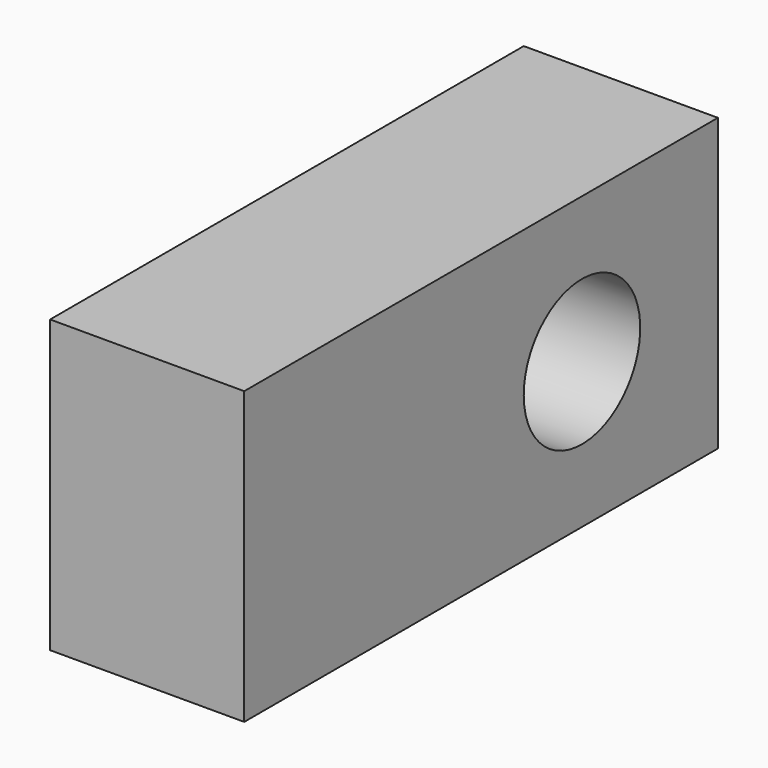
from build123d import *

# Parameters (mm, degrees)
SKETCH126_W      = 2
SKETCH126_H      = 3
EXTRUDE048_DEPTH = 6.1
SKETCH128_R      = 0.75
HOLE027_DEPTH    = 2
HOLE027_TIPS_R   = 0.75


with BuildPart() as part:
    # Sketch126 (on Face7 of Extrude043) → Extrude048 (new body)
    with BuildSketch(Plane(origin=(0, -130.299997, 0), x_dir=(-1, 0, 0), z_dir=(0, 1, 0))):
        with Locations((9, 3.5)):
            Rectangle(SKETCH126_W, SKETCH126_H)
    extrude(amount=EXTRUDE048_DEPTH)

    # Sketch128 (on Face4 of Extrude048) → Hole027 (cut)
    with BuildSketch(Plane(origin=(-10, 0, 0), x_dir=(0, -1, 0), z_dir=(-1, 0, 0))):
        with Locations((125.950268, 3.5)):
            Circle(SKETCH128_R)
    extrude(amount=-HOLE027_DEPTH, mode=Mode.SUBTRACT)

    # Hole027 tips → Hole027 tip 1 section 0
    with BuildSketch(Plane(origin=(-8, 0, 0), x_dir=(0, -1, 0), z_dir=(-1, 0, 0)), mode=Mode.PRIVATE) as hole027_tip_1_s0:
        with Locations((125.950268, 3.5)):
            Circle(HOLE027_TIPS_R)
    loft([hole027_tip_1_s0.sketch, Vertex(-7.549355, -125.950268, 3.5)], mode=Mode.SUBTRACT)


solid = part.part
